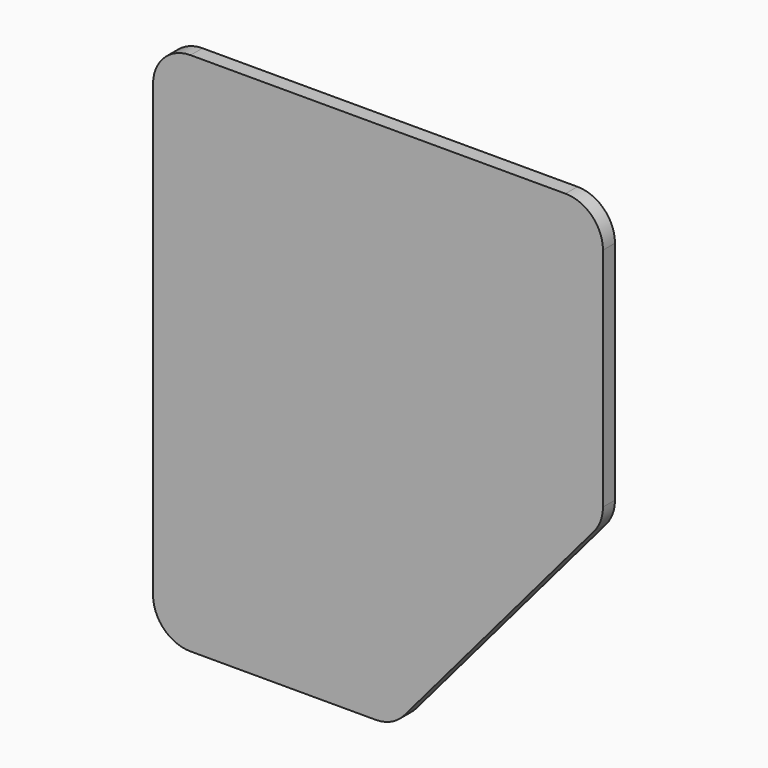
from build123d import *

# Parameters (mm, degrees)
F1_DEPTH = 20


with BuildPart() as f1:
    # F0 (on Front) → F1 (new body)
    with BuildSketch(Plane.XZ):
        with BuildLine():
            Line((550, 0), (50, 0))
            ThreePointArc((50, 0), (14.644661, -14.644661), (0, -50))
            Line((0, -50), (0, -650))
            ThreePointArc((0, -650), (14.644661, -685.355339), (50, -700))
            Line((50, -700), (296.851258, -700))
            ThreePointArc((296.851258, -700), (317.85788, -695.37314), (334.976714, -682.348872))
            Line((334.976714, -682.348872), (588.125457, -383.994997))
            ThreePointArc((588.125457, -383.994997), (596.93758, -368.875855), (600, -351.646125))
            Line((600, -351.646125), (600, -50))
            ThreePointArc((600, -50), (585.355339, -14.644661), (550, 0))
        make_face()
    extrude(amount=F1_DEPTH)


solid = f1.part
